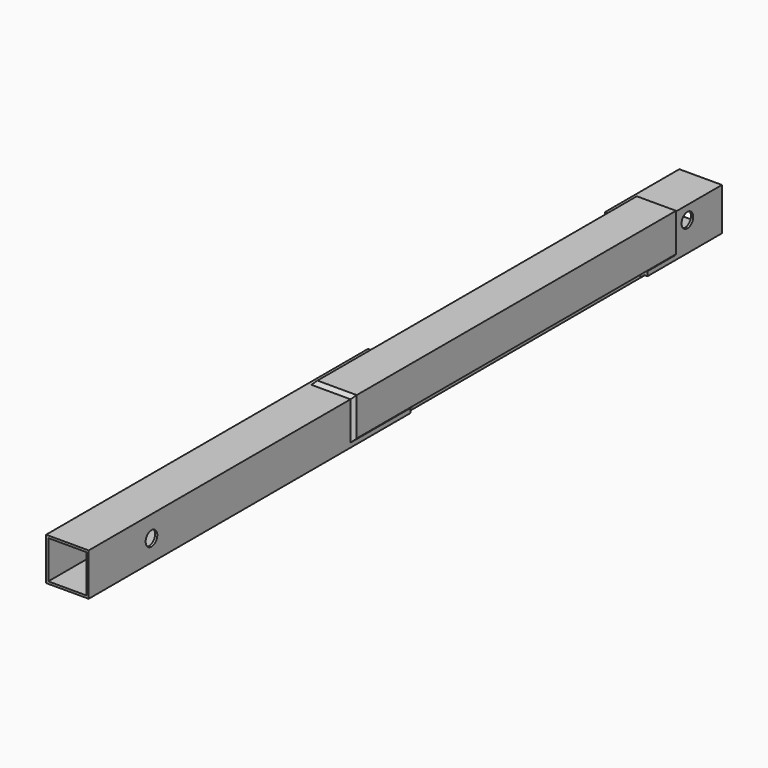
from build123d import *

# Parameters (mm, degrees)
F1_DEPTH  = 1120.775
F3_DEPTH  = 53.34
F6_DEPTH  = 565.15
F8_DEPTH  = 55.5625
F10_DEPTH = 45.155127
F12_DEPTH = 25.4
F14_DEPTH = 25.4
F16_DEPTH = 55.5625
F18_DEPTH = 49.193727
F20_DEPTH = 25.4
F22_DEPTH = 113.792
F24_DEPTH = 25.4
F26_DEPTH = 25.4
F28_DEPTH = 25.4
F30_DEPTH = 254
F32_DEPTH = 63.5
F34_DEPTH = 25.4
F36_DEPTH = 25.4
F38_DEPTH = 25.4
F40_DEPTH = 25.4
F41_W     = 53.975
F41_H     = 53.975
F42_DEPTH = 1239.52
F43_R     = 10.31875
F44_DEPTH = 89.662
F45_R     = 10.31875
F46_DEPTH = 179.832


with BuildPart() as f1:
    # F0 (on Front) → F1 (new body)
    with BuildSketch(Plane.XZ):
        Polygon((30.1625, 30.1625), (26.9875, 30.1625), (-26.9875, 30.1625), (-30.1625, 30.1625), (-30.1625, 26.9875), (-30.1625, -26.9875), (-30.1625, -30.1625), (-26.9875, -30.1625), (26.9875, -30.1625), (30.1625, -30.1625), (30.1625, -26.9875), (30.1625, 26.9875), align=None)
        Polygon((-23.8125, 26.9875), (23.8125, 26.9875), (26.9875, 26.9875), (26.9875, 23.8125), (26.9875, -23.8125), (26.9875, -26.9875), (23.8125, -26.9875), (-23.8125, -26.9875), (-26.9875, -26.9875), (-26.9875, -23.8125), (-26.9875, 23.8125), (-26.9875, 26.9875), align=None, mode=Mode.SUBTRACT)
    extrude(amount=-F1_DEPTH)

    # F2 (on Right) → F3 (cut, symmetric)
    with BuildSketch(Plane.YZ):
        Polygon((569.9125, 80.052234), (569.9125, 0), (569.9125, -86.322285), (989.0125, -86.322285), (989.0125, 80.052234), align=None)
    extrude(amount=F3_DEPTH, both=True, mode=Mode.SUBTRACT)



with BuildPart() as f6:
    # F5 (on offset) → F6 (new body)
    with BuildSketch(Plane.XZ.offset(-468.3125)):
        Polygon((-20.5486, 35.0139), (-20.5486, 30.2514), (30.2514, 30.2514), (30.2514, -19.031227), (35.0139, -19.031227), (35.0139, 35.0139), align=None)
        Polygon((-30.2514, 19.031227), (-35.0139, 19.031227), (-35.0139, -35.0139), (20.5486, -35.0139), (20.5486, -30.2514), (-30.2514, -30.2514), align=None)
    extrude(amount=-F6_DEPTH)


with BuildPart() as f1_1:
    add(f1.part)

    add(f6.part)  # F8 merges F6
    # F7 (on face) → F8 (join, through all)
    with BuildSketch(Plane(origin=(-20.5486, 0, 0), x_dir=(0, -1, 0), z_dir=(-1, 0, 0))):
        Polygon((-1033.4625, 30.2514), (-1033.4625, 35.0139), (-1042.3525, 26.1239), (-1033.4625, 26.1239), align=None)
        Polygon((-459.4225, 26.1239), (-468.3125, 35.0139), (-468.3125, 30.2514), (-468.3125, 26.1239), align=None)
    extrude(amount=-F8_DEPTH)

    # F9 (on face) → F10 (join, through all)
    with BuildSketch(Plane(origin=(0, 0, -19.031227), x_dir=(1, 0, 0), z_dir=(0, 0, -1))):
        Polygon((30.2514, -468.3125), (35.0139, -468.3125), (26.1239, -459.4225), (26.1239, -468.3125), align=None)
        Polygon((26.1239, -1042.3525), (35.0139, -1033.4625), (30.2514, -1033.4625), (26.1239, -1033.4625), align=None)
    extrude(amount=-F10_DEPTH)

    # F11 (on face) → F12 (cut)
    with BuildSketch(Plane(origin=(0, 0, 26.1239), x_dir=(1, 0, 0), z_dir=(0, 0, -1))):
        Polygon((35.0139, -459.4225), (30.1625, -459.4225), (30.1625, -463.4611), (35.0139, -468.3125), align=None)
    extrude(amount=-F12_DEPTH, mode=Mode.SUBTRACT)

    # F13 (on face) → F14 (cut)
    with BuildSketch(Plane(origin=(0, 0, 26.1239), x_dir=(1, 0, 0), z_dir=(0, 0, -1))):
        Polygon((35.0139, -1042.3525), (35.0139, -1033.4625), (30.1625, -1038.3139), (30.1625, -1042.3525), align=None)
    extrude(amount=-F14_DEPTH, mode=Mode.SUBTRACT)

    # F15 (on face) → F16 (join, through all)
    with BuildSketch(Plane.YZ.offset(20.5486)):
        Polygon((459.4225, -26.1239), (468.3125, -35.0139), (468.3125, -26.1239), align=None)
        Polygon((1033.4625, -26.1239), (1033.4625, -35.0139), (1042.3525, -26.1239), align=None)
    extrude(amount=-F16_DEPTH)

    # F17 (on face) → F18 (join, through all)
    with BuildSketch(Plane.XY.offset(19.031227)):
        Polygon((-26.1239, 468.3125), (-35.0139, 468.3125), (-26.1239, 459.4225), align=None)
        Polygon((-26.1239, 1042.3525), (-35.0139, 1033.4625), (-26.1239, 1033.4625), align=None)
    extrude(amount=-F18_DEPTH)

    # F19 (on face) → F20 (cut)
    with BuildSketch(Plane.XY.offset(-26.1239)):
        Polygon((-35.0139, 1033.4625), (-30.1625, 1038.3139), (-30.1625, 1042.3525), (-35.0139, 1042.3525), align=None)
    extrude(amount=-F20_DEPTH, mode=Mode.SUBTRACT)

    # F21 (on face) → F22 (join)
    with BuildSketch(Plane(origin=(0, 569.9125, 0), x_dir=(-1, 0, 0), z_dir=(0, 1, 0))):
        Polygon((29.4386, 26.1239), (20.5486, 35.0139), (20.5486, 26.1239), (26.1239, 26.1239), (26.1239, 27.921227), (27.921227, 26.1239), align=None)
        Polygon((27.921227, 26.1239), (26.1239, 26.1239), (26.1239, 19.031227), (35.0139, 19.031227), align=None)
        Polygon((-26.1239, -26.1239), (-26.1239, -19.031227), (-35.0139, -19.031227), (-27.921227, -26.1239), align=None)
        Polygon((-20.5486, -26.1239), (-26.1239, -26.1239), (-26.1239, -27.921227), (-27.921227, -26.1239), (-29.4386, -26.1239), (-20.5486, -35.0139), align=None)
    extrude(amount=-F22_DEPTH)

    # F23 (on face) → F24 (cut)
    with BuildSketch(Plane(origin=(20.5486, 0, 0), x_dir=(0, -1, 0), z_dir=(-1, 0, 0))):
        Polygon((-468.3125, -35.0139), (-456.1205, -35.0139), (-456.1205, -30.1625), (-463.4611, -30.1625), align=None)
    extrude(amount=-F24_DEPTH, mode=Mode.SUBTRACT)

    # F25 (on face) → F26 (cut)
    with BuildSketch(Plane.XY.offset(-19.031227)):
        Polygon((35.0139, 468.3125), (30.1625, 463.4611), (30.1625, 456.1205), (35.0139, 456.1205), align=None)
    extrude(amount=-F26_DEPTH, mode=Mode.SUBTRACT)

    # F27 (on face) → F28 (cut)
    with BuildSketch(Plane.YZ.offset(-20.5486)):
        Polygon((456.1205, 35.0139), (456.1205, 30.1625), (463.4611, 30.1625), (468.3125, 35.0139), align=None)
    extrude(amount=-F28_DEPTH, mode=Mode.SUBTRACT)

    # F29 (on face) → F30 (cut, symmetric)
    with BuildSketch(Plane(origin=(0, 0, 19.031227), x_dir=(1, 0, 0), z_dir=(0, 0, -1))):
        Polygon((-35.0139, -468.3125), (-30.1625, -463.4611), (-30.1625, -456.1205), (-35.0139, -456.1205), align=None)
    extrude(amount=F30_DEPTH, both=True, mode=Mode.SUBTRACT)

    # F31 (on face) → F32 (join)
    with BuildSketch(Plane.XZ.offset(-989.0125)):
        Polygon((-35.0139, 19.031227), (-26.1239, 19.031227), (-26.1239, 26.1239), (-27.921227, 26.1239), align=None)
        Polygon((-26.1239, 27.921227), (-26.1239, 26.1239), (-20.5486, 26.1239), (-20.5486, 35.0139), (-29.4386, 26.1239), (-27.921227, 26.1239), align=None)
        Polygon((20.5486, -26.1239), (20.5486, -35.0139), (29.4386, -26.1239), (27.921227, -26.1239), (26.1239, -27.921227), (26.1239, -26.1239), align=None)
        Polygon((26.1239, -19.031227), (26.1239, -26.1239), (27.921227, -26.1239), (35.0139, -19.031227), align=None)
    extrude(amount=-F32_DEPTH)

    # F33 (on face) → F34 (cut)
    with BuildSketch(Plane(origin=(20.5486, 0, 0), x_dir=(0, -1, 0), z_dir=(-1, 0, 0))):
        Polygon((-1052.5125, -35.0139), (-1033.4625, -35.0139), (-1038.3139, -30.1625), (-1052.5125, -30.1625), align=None)
    extrude(amount=-F34_DEPTH, mode=Mode.SUBTRACT)

    # F35 (on face) → F36 (cut)
    with BuildSketch(Plane(origin=(0, 0, 19.031227), x_dir=(1, 0, 0), z_dir=(0, 0, -1))):
        Polygon((-30.1625, -1038.3139), (-35.0139, -1033.4625), (-35.0139, -1052.5125), (-30.1625, -1052.5125), align=None)
    extrude(amount=-F36_DEPTH, mode=Mode.SUBTRACT)

    # F37 (on face) → F38 (cut)
    with BuildSketch(Plane.YZ.offset(-20.5486)):
        Polygon((1052.5125, 35.0139), (1033.4625, 35.0139), (1038.3139, 30.1625), (1052.5125, 30.1625), align=None)
    extrude(amount=-F38_DEPTH, mode=Mode.SUBTRACT)

    # F39 (on face) → F40 (cut)
    with BuildSketch(Plane.XY.offset(-19.031227)):
        Polygon((30.1625, 1052.5125), (30.1625, 1038.3139), (35.0139, 1033.4625), (35.0139, 1052.5125), align=None)
    extrude(amount=-F40_DEPTH, mode=Mode.SUBTRACT)

    # F41 (on face) → F42 (cut)
    with BuildSketch(Plane.XZ):
        Rectangle(F41_W, F41_H)
    extrude(amount=-F42_DEPTH, mode=Mode.SUBTRACT)

    # F43 (on face) → F44 (cut)
    with BuildSketch(Plane(origin=(-30.1625, 0, 0), x_dir=(0, -1, 0), z_dir=(-1, 0, 0))):
        with Locations((-1059.65625, 11.1125)):
            Circle(F43_R)
    extrude(amount=-F44_DEPTH, mode=Mode.SUBTRACT)

    # F45 (on face) → F46 (cut)
    with BuildSketch(Plane(origin=(-30.1625, 0, 0), x_dir=(0, -1, 0), z_dir=(-1, 0, 0))):
        with Locations((-111.125, 0)):
            Circle(F45_R)
    extrude(amount=-F46_DEPTH, mode=Mode.SUBTRACT)


solid = f1_1.part
